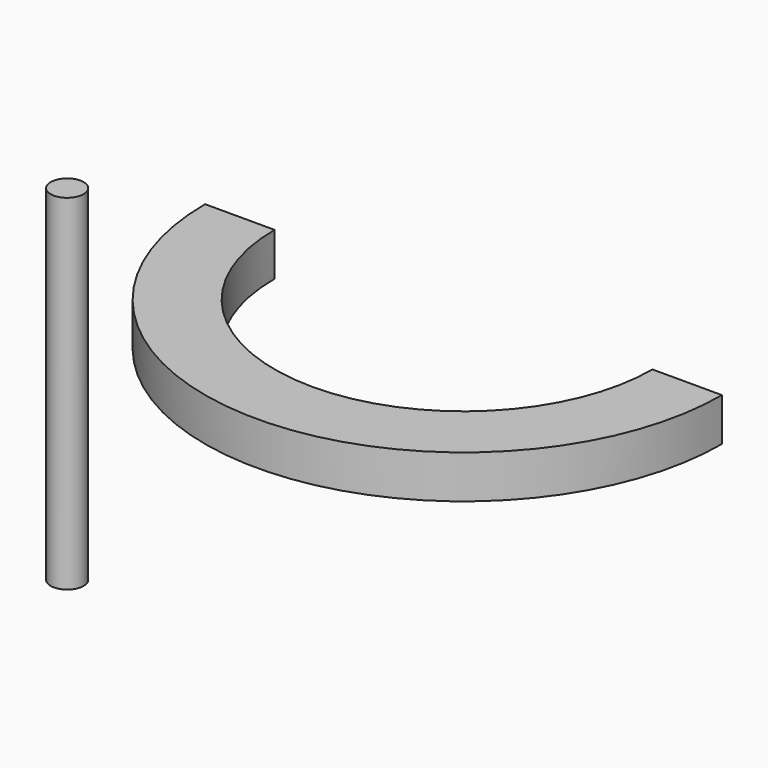
from build123d import *

# Parameters (mm, degrees)
F1_DEPTH = 12.7
F2_R     = 4.844027
F3_DEPTH = 50.8


with BuildPart() as f1:
    # F0 (on Top) → F1 (new body)
    with BuildSketch(Plane.XY):
        with BuildLine():
            Line((-55.646595, 0), (-76.11762, 0))
            ThreePointArc((-76.11762, 0), (0, -76.11762), (76.11762, 0))
            Line((76.11762, 0), (55.646595, 0))
            ThreePointArc((55.646595, 0), (0, -55.646595), (-55.646595, 0))
        make_face()
    extrude(amount=F1_DEPTH)


with BuildPart() as f3:
    # F2 (on Top) → F3 (new body, symmetric)
    with BuildSketch(Plane.XY):
        with Locations((-60.181126, -70.723958)):
            Circle(F2_R)
    extrude(amount=F3_DEPTH, both=True)


solid = Compound([f1.part, f3.part])
